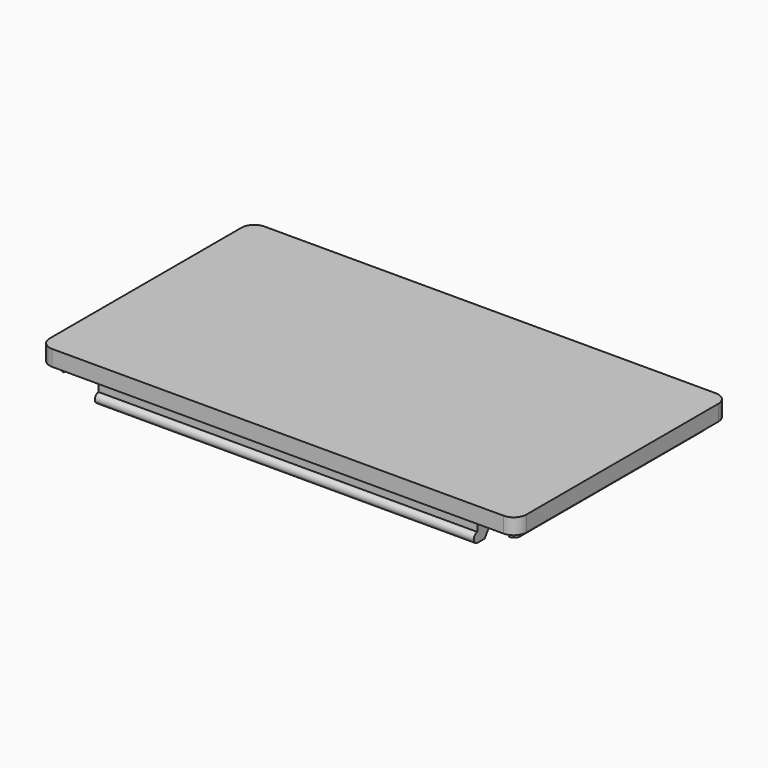
from build123d import *

# Parameters (mm, degrees)
PAD011_DEPTH    = 30
PAD012_DEPTH    = 0.8
PAD013_DEPTH    = 1.7
PAD014_DEPTH    = 3
CHAMFER002_SIZE = 1.5


with BuildPart() as part:
    # Sketch014 → Pad011 (new body, symmetric)
    with BuildSketch(Plane.YZ):
        with BuildLine():
            ThreePointArc((-13.5, 21.519943), (-21.311021, 27.174165), (-29.878928, 22.75))
            Line((-31.3, 22.75), (-29.878928, 22.75))
            ThreePointArc((-31.3, 24.25), (-32.05, 23.5), (-31.3, 22.75))
            Line((-31.3, 26.5), (-31.3, 24.25))
            Line((-33, 26.5), (-31.3, 26.5))
            Line((-33, 26.5), (-33, 29))
            Line((9, 29), (-33, 29))
            Line((9, 26.5), (9, 29))
            Line((9, 26.5), (6.8, 26.5))
            Line((6.8, 26.5), (6.8, 24.25))
            ThreePointArc((6.8, 22.75), (7.55, 23.5), (6.8, 24.25))
            Line((5.878928, 22.75), (6.8, 22.75))
            ThreePointArc((5.878928, 22.75), (-2.688979, 27.174165), (-10.5, 21.519943))
            Line((-13.5, 21.519943), (-10.5, 21.519943))
        make_face()
    extrude(amount=PAD011_DEPTH, both=True)

    # Sketch015 (on Face9 of Pad011) → Pad012 (join)
    with BuildSketch(Plane(origin=(0, 0, 29), x_dir=(0, -1, 0), z_dir=(0, 0, 1))):
        with BuildLine():
            ThreePointArc((-6.999999, 37.5), (-8.414213, 36.914214), (-9, 35.5))
            Line((-9, 30), (-9, 35.5))
            Line((33, 30), (-9, 30))
            Line((33, 35.5), (33, 30))
            ThreePointArc((33, 35.5), (32.414214, 36.914214), (31, 37.5))
            Line((-6.999999, 37.5), (31, 37.5))
        make_face()
        with BuildLine():
            Line((-9, -30), (33, -30))
            Line((33, -30), (33, -36))
            ThreePointArc((31, -38), (32.414214, -37.414214), (33, -36))
            Line((-7, -38), (31, -38))
            ThreePointArc((-9, -36.000001), (-8.414213, -37.414214), (-7, -38))
            Line((-9, -30), (-9, -36.000001))
        make_face()
    extrude(amount=-PAD012_DEPTH)

    # Sketch016 (on Face15 of Pad012) → Pad013 (join)
    with BuildSketch(Plane.YX.offset(-28.2)):
        with BuildLine():
            Line((-31.3, 30), (-33, 30))
            Line((-33, 30), (-33, 35.5))
            ThreePointArc((-31, 37.5), (-32.414214, 36.914214), (-33, 35.5))
            Line((6.999999, 37.5), (-31, 37.5))
            ThreePointArc((9, 35.5), (8.414213, 36.914214), (6.999999, 37.5))
            Line((9, 30), (9, 35.5))
            Line((9, 30), (6.8, 30))
            Line((6.8, 30), (6.8, 35))
            ThreePointArc((6.8, 35), (6.507107, 35.707107), (5.8, 36))
            Line((5.8, 36), (-30.3, 36))
            ThreePointArc((-30.3, 36), (-31.007107, 35.707107), (-31.3, 35))
            Line((-31.3, 30), (-31.3, 35))
        make_face()
        with BuildLine():
            ThreePointArc((7, -38), (8.414213, -37.414214), (9, -36.000001))
            Line((9, -30), (9, -36.000001))
            Line((6.8, -30), (9, -30))
            Line((6.8, -30), (6.8, -35.5))
            ThreePointArc((5.8, -36.5), (6.507107, -36.207107), (6.8, -35.5))
            Line((-30.3, -36.5), (5.8, -36.5))
            ThreePointArc((-31.3, -35.5), (-31.007107, -36.207107), (-30.3, -36.5))
            Line((-31.3, -30), (-31.3, -35.5))
            Line((-33, -30), (-31.3, -30))
            Line((-33, -36), (-33, -30))
            ThreePointArc((-33, -36), (-32.414214, -37.414214), (-31, -38))
            Line((-31, -38), (7, -38))
        make_face()
    extrude(amount=PAD013_DEPTH)

    # Sketch018 (on Face20 of Pad013) → Pad014 (join)
    with BuildSketch(Plane.YX.offset(-28.2)):
        with BuildLine():
            Line((-31.3, 35), (6.8, 35))
            ThreePointArc((6.8, 35), (6.507107, 35.707107), (5.8, 36))
            Line((5.8, 36), (-30.3, 36))
            ThreePointArc((-30.3, 36), (-31.007107, 35.707107), (-31.3, 35))
        make_face()
        with BuildLine():
            ThreePointArc((5.8, -36.5), (6.507107, -36.207107), (6.8, -35.5))
            Line((-31.3, -35.5), (6.8, -35.5))
            ThreePointArc((-31.3, -35.5), (-31.007107, -36.207107), (-30.3, -36.5))
            Line((5.8, -36.5), (-30.3, -36.5))
        make_face()
    extrude(amount=PAD014_DEPTH)

    # Chamfer002
    chamfer002_edges = [part.edges().sort_by_distance(p)[0] for p in [
        (35, -12.25, 28.2),
        (-35.5, -12.25, 28.2),
    ]]
    chamfer(chamfer002_edges, length=CHAMFER002_SIZE)


solid = part.part
